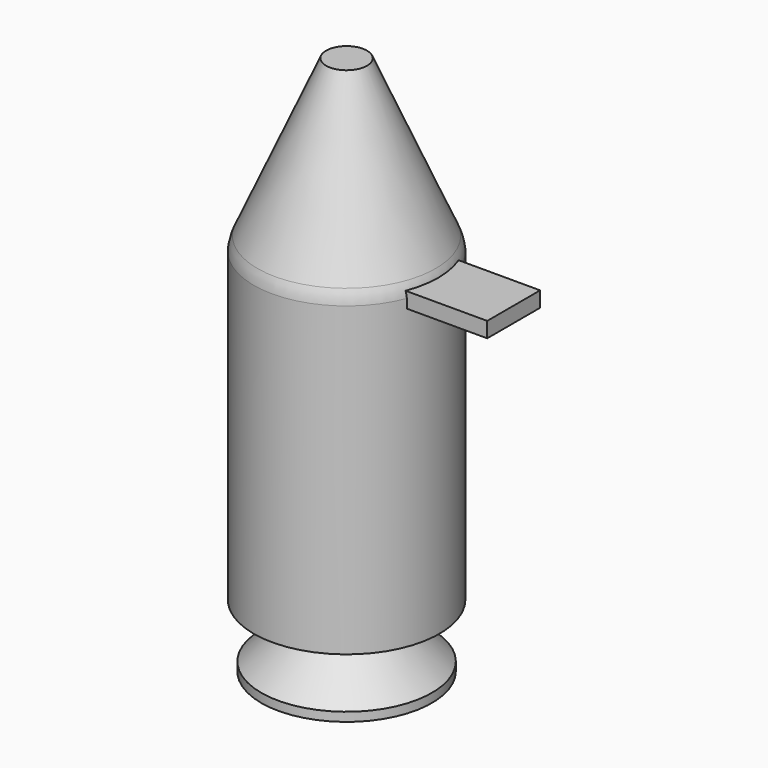
from build123d import *

# Parameters (mm, degrees)
F2_W     = 7.128102
F2_H     = 1.654645
F3_DEPTH = 18


with BuildPart() as f1:
    # F0 (on Front) → F1 (revolve)
    with BuildSketch(Plane.XZ):
        with BuildLine():
            Line((0, 30.909854), (-2.205052, 30.909854))
            Line((-2.205052, 30.909854), (-9.606381, 14.085311))
            ThreePointArc((-9.606381, 14.085311), (-9.859412, 13.365584), (-10, 12.615739))
            Line((-10, 12.615739), (-10, -20.428332))
            Line((-10, -20.428332), (-3.521215, -20.428332))
            Line((-3.521215, -20.428332), (-9.191453, -26.291605))
            Line((-9.191453, -26.291605), (-9.191453, -27.253969))
            Line((-9.191453, -27.253969), (-6.950572, -27.253969))
            Line((-6.950572, -27.253969), (-3.461232, -23.483038))
            Line((-3.461232, -23.483038), (0, -23.483038))
            Line((0, -23.483038), (0, 30.909854))
        make_face()
    revolve(axis=Axis((0, 0, 3.713408), (0, 0, -1)))

    # F2 (on Right) → F3 (join)
    with BuildSketch(Plane.YZ):
        with Locations((0, 12.470122)):
            Rectangle(F2_W, F2_H)
    extrude(amount=F3_DEPTH)


solid = f1.part
